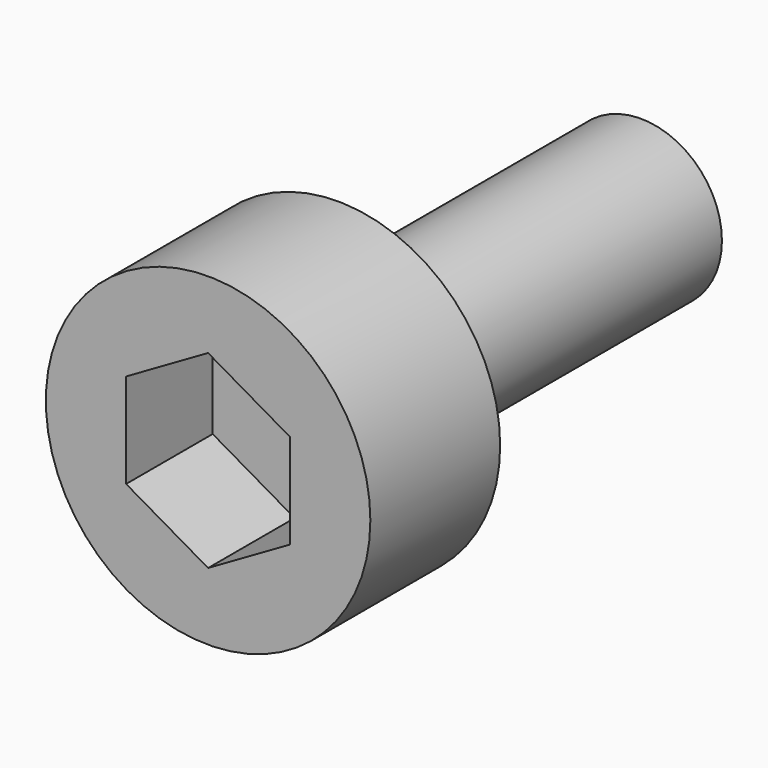
from build123d import *

# Parameters (mm, degrees)
F0_R     = 1.5
F1_DEPTH = 10
F2_R     = 3
F2_R_2   = 1.5
F3_DEPTH = 3
F4_R     = 1.5
F5_DEPTH = 2


with BuildPart() as f1:
    # F0 (on Front) → F1 (new body)
    with BuildSketch(Plane.XZ):
        Circle(F0_R)
    extrude(amount=-F1_DEPTH)

    # F2 (on face) → F3 (join)
    with BuildSketch(Plane.XZ):
        Circle(F2_R)
        Polygon((1.375, 2.3815698604), (2.75, 0), (1.375, -2.3815698604), (-1.375, -2.3815698604), (-2.75, 0), (-1.375, 2.3815698604), align=None, mode=Mode.SUBTRACT)
        Circle(F2_R)
        Polygon((1.375, 2.3815698604), (2.75, 0), (1.375, -2.3815698604), (-1.375, -2.3815698604), (-2.75, 0), (-1.375, 2.3815698604), align=None, mode=Mode.SUBTRACT)
        Circle(F2_R)
        Polygon((1.375, 2.3815698604), (2.75, 0), (1.375, -2.3815698604), (-1.375, -2.3815698604), (-2.75, 0), (-1.375, 2.3815698604), align=None, mode=Mode.SUBTRACT)
        Circle(F2_R)
        Polygon((1.375, 2.3815698604), (2.75, 0), (1.375, -2.3815698604), (-1.375, -2.3815698604), (-2.75, 0), (-1.375, 2.3815698604), align=None, mode=Mode.SUBTRACT)
        Circle(F2_R)
        Polygon((1.375, 2.3815698604), (2.75, 0), (1.375, -2.3815698604), (-1.375, -2.3815698604), (-2.75, 0), (-1.375, 2.3815698604), align=None, mode=Mode.SUBTRACT)
        Circle(F2_R)
        Polygon((1.375, 2.3815698604), (2.75, 0), (1.375, -2.3815698604), (-1.375, -2.3815698604), (-2.75, 0), (-1.375, 2.3815698604), align=None, mode=Mode.SUBTRACT)
        Polygon((1.375, -2.3815698604), (2.75, 0), (1.375, 2.3815698604), (-1.375, 2.3815698604), (-2.75, 0), (-1.375, -2.3815698604), align=None)
        Circle(F2_R_2, mode=Mode.SUBTRACT)
    extrude(amount=-F3_DEPTH)

    # F4 (on face) → F5 (cut)
    with BuildSketch(Plane.XZ):
        Polygon((-1.5155444566, -0.875), (0, -1.75), (1.5155444566, -0.875), (1.5155444566, 0.875), (0, 1.75), (-1.5155444566, 0.875), align=None)
        Circle(F4_R, mode=Mode.SUBTRACT)
        Circle(F4_R)
    extrude(amount=-F5_DEPTH, mode=Mode.SUBTRACT)


solid = f1.part
